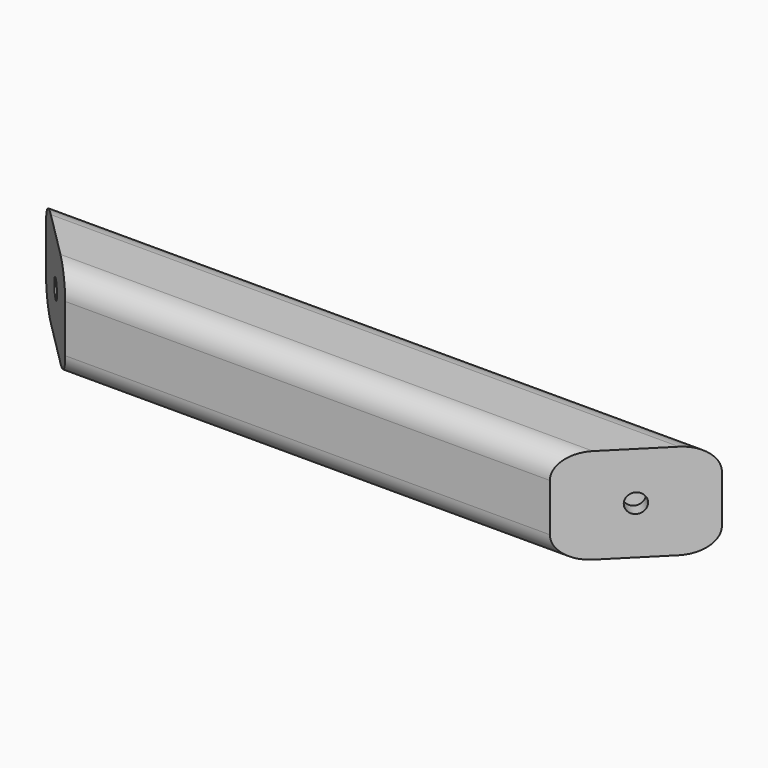
from build123d import *

# Parameters (mm, degrees)
PAD_DEPTH         = 20
SKETCH002_R       = 2
POCKET_DEPTH      = 20.143136
POCKET_DEPTH_BACK = 44.001
SKETCH003_R       = 4
POCKET001_DEPTH   = 44.001
CHAMFER_SIZE2     = 1.9999
CHAMFER_SIZE      = 3
FILLET_R          = 5


with BuildPart() as part:
    # Sketch → Pad (new body)
    with BuildSketch(Plane.XY):
        Polygon((0, 0), (50.710678, 0), (70.710678, 20), (0, 20), align=None)
    extrude(amount=PAD_DEPTH)

    # Sketch002 (on DatumPlane) → Pocket (cut, two sides)
    with BuildSketch(Plane(origin=(21.112698, -21.112698, 0), x_dir=(-0.707107, -0.707107, 0), z_dir=(-0.707107, 0.707107, 0))) as pocket_sk:
        with Locations((-50, 10)):
            Circle(SKETCH002_R)
    extrude(amount=-POCKET_DEPTH, mode=Mode.SUBTRACT)
    extrude(pocket_sk.sketch, amount=POCKET_DEPTH_BACK, mode=Mode.SUBTRACT)

    # Sketch003 (on DatumPlane) → Pocket001 (cut, through all)
    with BuildSketch(Plane(origin=(21.112698, -21.112698, 0), x_dir=(-0.707107, -0.707107, 0), z_dir=(-0.707107, 0.707107, 0))):
        with Locations((-50, 10)):
            Circle(SKETCH003_R)
    extrude(amount=POCKET001_DEPTH, mode=Mode.SUBTRACT)

    # Chamfer
    chamfer_edges = [part.edges().sort_by_distance(p)[0] for p in [
        (57.882251, 15.656854, 10),
    ]]
    chamfer_side = part.faces().sort_by_distance((60.003571, 13.535534, 10))[0]
    chamfer(chamfer_edges, length=CHAMFER_SIZE, length2=CHAMFER_SIZE2, reference=chamfer_side)

    # Fillet
    fillet_edges = [part.edges().sort_by_distance(p)[0] for p in [
        (35.355339, 20, 20),
        (25.355339, 0, 20),
        (35.355339, 20, 0),
        (25.355339, 0, 0),
    ]]
    fillet(fillet_edges, radius=FILLET_R)

    # Mirrored: part across YZ


with BuildPart() as part_1:
    add(part.part)
    add(part.part.mirror(Plane.YZ))


solid = part_1.part
